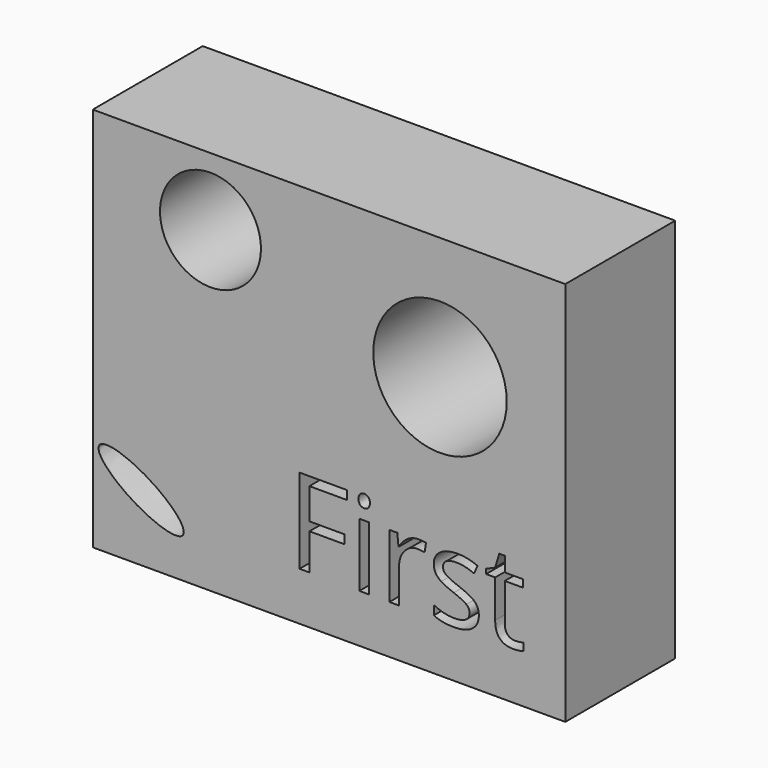
from build123d import *

# Parameters (mm, degrees)
F0_W     = 87.3107276857
F0_H     = 71.2193287909
F0_W_2   = 1.7788149683
F0_H_2   = 11.7388078353
F0_R     = 9.3285263882
F0_R_2   = 12.3305687845
F1_DEPTH = 25.4


with BuildPart() as f1:
    # F0 (on Front) → F1 (new body)
    with BuildSketch(Plane.XZ):
        with Locations((-0.1489948481, 1.1919569224)):
            Rectangle(F0_W, F0_H)
        with BuildLine():
            add(Edge.make_bspline(
                [(-27.116984129, -26.9679892808), (-24.67801378, -23.0046630593), (-37.5190635812, -17.8345930175), (-50.3601133823, -12.6645229757), (-39.9580339301, -21.797919239), (-29.5559544779, -30.9313155023), (-27.116984129, -26.9679892808)],
                knots=[0, 0, 0, 2.0943951024, 2.0943951024, 4.1887902048, 4.1887902048, 6.2831853072, 6.2831853072, 6.2831853072], degree=2, weights=[1, 0.5, 1, 0.5, 1, 0.5, 1]))
        make_face(mode=Mode.SUBTRACT)
        Polygon((-3.7753647961, -18.7843553795), (-3.7753647961, -25.4780463874), (-5.5953084342, -25.4780463874), (-5.5953084342, -9.8183053657), (3.1342517282, -9.8183053657), (3.1342517282, -11.436033044), (-3.7753647961, -11.436033044), (-3.7753647961, -17.1666277011), (2.716110252, -17.1666277011), (2.716110252, -18.7843553795), align=None, mode=Mode.SUBTRACT)
        with Locations((6.3474290554, -19.6086424698)):
            Rectangle(F0_W_2, F0_H_2, mode=Mode.SUBTRACT)
        with BuildLine():
            add(Edge.make_bspline(
                [(14.3383868563, -14.1453841663), (15.2603545373, -13.5233130358), (16.3639738433, -13.5233130358)],
                knots=[0, 0, 0, 1, 1, 1], degree=2))
            add(Edge.make_bspline(
                [(16.3639738433, -13.5233130358), (17.1454185693, -13.5233130358), (17.7657760052, -13.6535538234)],
                knots=[0, 0, 0, 1, 1, 1], degree=2))
            Line((17.7657760052, -13.6535538234), (17.5190039865, -15.3021280041))
            add(Edge.make_bspline(
                [(17.5190039865, -15.3021280041), (16.7923974869, -15.1410407141), (16.2337330556, -15.1410407141)],
                knots=[0, 0, 0, 1, 1, 1], degree=2))
            add(Edge.make_bspline(
                [(16.2337330556, -15.1410407141), (14.8079391697, -15.1410407141), (13.7968593707, -16.2977845519)],
                knots=[0, 0, 0, 1, 1, 1], degree=2))
            add(Edge.make_bspline(
                [(13.7968593707, -16.2977845519), (12.7857795718, -17.4545283897), (12.7857795718, -19.1785051316)],
                knots=[0, 0, 0, 1, 1, 1], degree=2))
            Line((12.7857795718, -19.1785051316), (12.7857795718, -25.4780463874))
            Line((12.7857795718, -25.4780463874), (11.0069646034, -25.4780463874))
            Line((11.0069646034, -25.4780463874), (11.0069646034, -13.7392385522))
            Line((11.0069646034, -13.7392385522), (12.4738871592, -13.7392385522))
            Line((12.4738871592, -13.7392385522), (12.6795305081, -15.9122032726))
            Line((12.6795305081, -15.9122032726), (12.7652152369, -15.9122032726))
            add(Edge.make_bspline(
                [(12.7652152369, -15.9122032726), (13.4164191752, -14.7674552969), (14.3383868563, -14.1453841663)],
                knots=[0, 0, 0, 1, 1, 1], degree=2))
        make_face(mode=Mode.SUBTRACT)
        with BuildLine():
            add(Edge.make_bspline(
                [(26.800373802, -20.336962664), (27.5338350798, -21.1081252225), (27.5338350798, -22.2768649223)],
                knots=[0, 0, 0, 1, 1, 1], degree=2))
            add(Edge.make_bspline(
                [(27.5338350798, -22.2768649223), (27.5338350798, -23.9151569355), (26.3136845428, -24.8045644197)],
                knots=[0, 0, 0, 1, 1, 1], degree=2))
            add(Edge.make_bspline(
                [(26.3136845428, -24.8045644197), (25.0935340058, -25.6939719038), (22.8862953938, -25.6939719038)],
                knots=[0, 0, 0, 1, 1, 1], degree=2))
            add(Edge.make_bspline(
                [(22.8862953938, -25.6939719038), (20.5522433834, -25.6939719038), (19.2464081176, -24.9536558476)],
                knots=[0, 0, 0, 1, 1, 1], degree=2))
            Line((19.2464081176, -24.9536558476), (19.2464081176, -23.305081667))
            add(Edge.make_bspline(
                [(19.2464081176, -23.305081667), (20.0929732374, -23.7335053106), (21.061210672, -23.9785636348)],
                knots=[0, 0, 0, 1, 1, 1], degree=2))
            add(Edge.make_bspline(
                [(21.061210672, -23.9785636348), (22.0294481066, -24.2236219589), (22.9308514528, -24.2236219589)],
                knots=[0, 0, 0, 1, 1, 1], degree=2))
            add(Edge.make_bspline(
                [(22.9308514528, -24.2236219589), (24.3223714472, -24.2236219589), (25.0712559763, -23.7797750641)],
                knots=[0, 0, 0, 1, 1, 1], degree=2))
            add(Edge.make_bspline(
                [(25.0712559763, -23.7797750641), (25.8201405054, -23.3359281693), (25.8201405054, -22.4242426557)],
                knots=[0, 0, 0, 1, 1, 1], degree=2))
            add(Edge.make_bspline(
                [(25.8201405054, -22.4242426557), (25.8201405054, -21.7387648259), (25.2272021826, -21.2520755667)],
                knots=[0, 0, 0, 1, 1, 1], degree=2))
            add(Edge.make_bspline(
                [(25.2272021826, -21.2520755667), (24.6342638598, -20.7653863076), (22.9068597287, -20.1004728127)],
                knots=[0, 0, 0, 1, 1, 1], degree=2))
            add(Edge.make_bspline(
                [(22.9068597287, -20.1004728127), (21.2685677155, -19.4903975442), (20.577948802, -19.0345547873)],
                knots=[0, 0, 0, 1, 1, 1], degree=2))
            add(Edge.make_bspline(
                [(20.577948802, -19.0345547873), (19.8873298885, -18.5787120305), (19.5497320573, -18.0011969589)],
                knots=[0, 0, 0, 1, 1, 1], degree=2))
            add(Edge.make_bspline(
                [(19.5497320573, -18.0011969589), (19.2121342261, -17.4236818873), (19.2121342261, -16.6216728265)],
                knots=[0, 0, 0, 1, 1, 1], degree=2))
            add(Edge.make_bspline(
                [(19.2121342261, -16.6216728265), (19.2121342261, -15.185596773), (20.3808739259, -14.3544549044)],
                knots=[0, 0, 0, 1, 1, 1], degree=2))
            add(Edge.make_bspline(
                [(20.3808739259, -14.3544549044), (21.5496136257, -13.5233130358), (23.5820553911, -13.5233130358)],
                knots=[0, 0, 0, 1, 1, 1], degree=2))
            add(Edge.make_bspline(
                [(23.5820553911, -13.5233130358), (25.4774015905, -13.5233130358), (27.2904904503, -14.2944755943)],
                knots=[0, 0, 0, 1, 1, 1], degree=2))
            Line((27.2904904503, -14.2944755943), (26.6564234577, -15.7408338152))
            add(Edge.make_bspline(
                [(26.6564234577, -15.7408338152), (24.891318046, -15.0142273156), (23.4552419926, -15.0142273156)],
                knots=[0, 0, 0, 1, 1, 1], degree=2))
            add(Edge.make_bspline(
                [(23.4552419926, -15.0142273156), (22.1905353966, -15.0142273156), (21.5478999311, -15.4100907623)],
                knots=[0, 0, 0, 1, 1, 1], degree=2))
            add(Edge.make_bspline(
                [(21.5478999311, -15.4100907623), (20.9052644657, -15.805954209), (20.9052644657, -16.5017142062)],
                knots=[0, 0, 0, 1, 1, 1], degree=2))
            add(Edge.make_bspline(
                [(20.9052644657, -16.5017142062), (20.9052644657, -16.9746939088), (21.1468954007, -17.3054369617)],
                knots=[0, 0, 0, 1, 1, 1], degree=2))
            add(Edge.make_bspline(
                [(21.1468954007, -17.3054369617), (21.3885263357, -17.6361800146), (21.923199043, -17.9360765651)],
                knots=[0, 0, 0, 1, 1, 1], degree=2))
            add(Edge.make_bspline(
                [(21.923199043, -17.9360765651), (22.4578717502, -18.2359731156), (23.9796325323, -18.8049197144)],
                knots=[0, 0, 0, 1, 1, 1], degree=2))
            add(Edge.make_bspline(
                [(23.9796325323, -18.8049197144), (26.0669125241, -19.5658001054), (26.800373802, -20.336962664)],
                knots=[0, 0, 0, 1, 1, 1], degree=2))
        make_face(mode=Mode.SUBTRACT)
        with BuildLine():
            add(Edge.make_bspline(
                [(32.8360060933, -23.6563890547), (33.3398322982, -24.2236219589), (34.2172439204, -24.2236219589)],
                knots=[0, 0, 0, 1, 1, 1], degree=2))
            add(Edge.make_bspline(
                [(34.2172439204, -24.2236219589), (34.6902236229, -24.2236219589), (35.128929434, -24.1550741759)],
                knots=[0, 0, 0, 1, 1, 1], degree=2))
            add(Edge.make_bspline(
                [(35.128929434, -24.1550741759), (35.5676352451, -24.0865263929), (35.8246894312, -24.0111238317)],
                knots=[0, 0, 0, 1, 1, 1], degree=2))
            Line((35.8246894312, -24.0111238317), (35.8246894312, -25.3717973238))
            add(Edge.make_bspline(
                [(35.8246894312, -25.3717973238), (35.5367887427, -25.5088928898), (34.9746969223, -25.6014323968)],
                knots=[0, 0, 0, 1, 1, 1], degree=2))
            add(Edge.make_bspline(
                [(34.9746969223, -25.6014323968), (34.4126051019, -25.6939719038), (33.9601897342, -25.6939719038)],
                knots=[0, 0, 0, 1, 1, 1], degree=2))
            add(Edge.make_bspline(
                [(33.9601897342, -25.6939719038), (30.5567923092, -25.6939719038), (30.5567923092, -22.1054954648)],
                knots=[0, 0, 0, 1, 1, 1], degree=2))
            Line((30.5567923092, -22.1054954648), (30.5567923092, -15.1204763792))
            Line((30.5567923092, -15.1204763792), (28.8739442371, -15.1204763792))
            Line((28.8739442371, -15.1204763792), (28.8739442371, -14.263629092))
            Line((28.8739442371, -14.263629092), (30.5567923092, -13.5233130358))
            Line((30.5567923092, -13.5233130358), (31.3039631437, -11.0178915679))
            Line((31.3039631437, -11.0178915679), (32.3321798884, -11.0178915679))
            Line((32.3321798884, -11.0178915679), (32.3321798884, -13.7392385522))
            Line((32.3321798884, -13.7392385522), (35.7390047025, -13.7392385522))
            Line((35.7390047025, -13.7392385522), (35.7390047025, -15.1204763792))
            Line((35.7390047025, -15.1204763792), (32.3321798884, -15.1204763792))
            Line((32.3321798884, -15.1204763792), (32.3321798884, -22.0300929036))
            add(Edge.make_bspline(
                [(32.3321798884, -22.0300929036), (32.3321798884, -23.0891561506), (32.8360060933, -23.6563890547)],
                knots=[0, 0, 0, 1, 1, 1], degree=2))
        make_face(mode=Mode.SUBTRACT)
        with BuildLine():
            add(Edge.make_bspline(
                [(5.6071129992, -11.4531699898), (5.3072164487, -11.158414523), (5.3072164487, -10.5586214219)],
                knots=[0, 0, 0, 1, 1, 1], degree=2))
            add(Edge.make_bspline(
                [(5.3072164487, -10.5586214219), (5.3072164487, -9.9485461534), (5.6071129992, -9.664072854)],
                knots=[0, 0, 0, 1, 1, 1], degree=2))
            add(Edge.make_bspline(
                [(5.6071129992, -9.664072854), (5.9070095497, -9.3795995547), (6.3594249174, -9.3795995547)],
                knots=[0, 0, 0, 1, 1, 1], degree=2))
            add(Edge.make_bspline(
                [(6.3594249174, -9.3795995547), (6.787848561, -9.3795995547), (7.098027279, -9.6692139377)],
                knots=[0, 0, 0, 1, 1, 1], degree=2))
            add(Edge.make_bspline(
                [(7.098027279, -9.6692139377), (7.408205997, -9.9588283208), (7.408205997, -10.5586214219)],
                knots=[0, 0, 0, 1, 1, 1], degree=2))
            add(Edge.make_bspline(
                [(7.408205997, -10.5586214219), (7.408205997, -11.158414523), (7.098027279, -11.4531699898)],
                knots=[0, 0, 0, 1, 1, 1], degree=2))
            add(Edge.make_bspline(
                [(7.098027279, -11.4531699898), (6.787848561, -11.7479254566), (6.3594249174, -11.7479254566)],
                knots=[0, 0, 0, 1, 1, 1], degree=2))
            add(Edge.make_bspline(
                [(6.3594249174, -11.7479254566), (5.9070095497, -11.7479254566), (5.6071129992, -11.4531699898)],
                knots=[0, 0, 0, 1, 1, 1], degree=2))
        make_face(mode=Mode.SUBTRACT)
        with Locations((-22.0511741936, 24.286089465)):
            Circle(F0_R, mode=Mode.SUBTRACT)
        with Locations((20.3589446885, 14.1421683438)):
            Circle(F0_R_2, mode=Mode.SUBTRACT)
    extrude(amount=F1_DEPTH)


solid = f1.part
